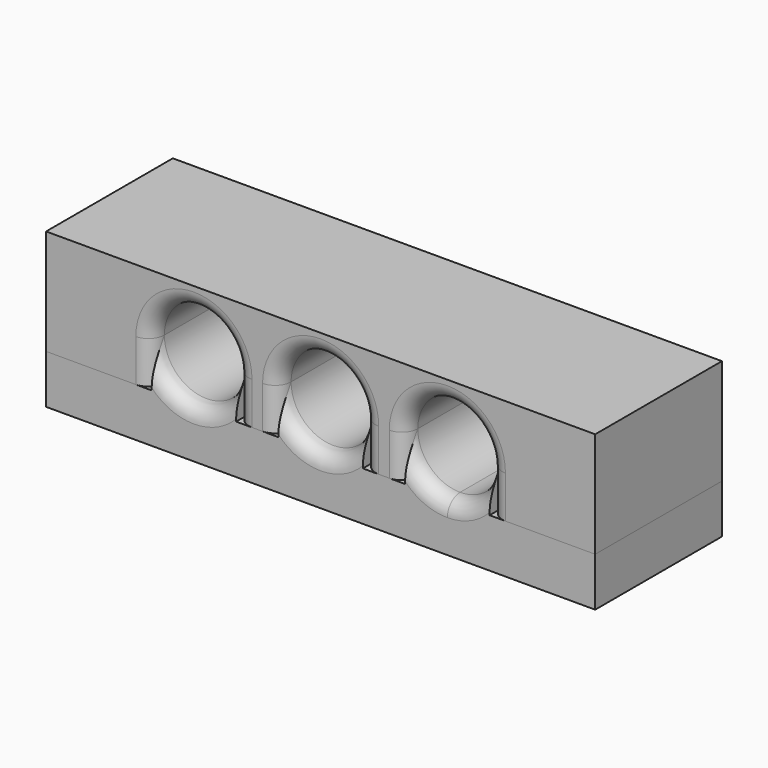
from build123d import *

# Parameters (mm, degrees)
F1_DEPTH = 7.5
F2_R     = 1.5
F3_DEPTH = 7.5
F4_R     = 1.5


with BuildPart() as f1:
    # F0 (on Front) → F1 (new body, symmetric)
    with BuildSketch(Plane.XZ):
        with BuildLine():
            ThreePointArc((-4, 0), (0, 4), (4, 0))
            Line((4, 0), (4, -4))
            Line((4, -4), (8, -4))
            Line((8, -4), (8, 0))
            ThreePointArc((8, 0), (12, 4), (16, 0))
            Line((16, 0), (16, -4))
            Line((16, -4), (26, -4))
            Line((26, -4), (26, 6))
            Line((26, 6), (-26, 6))
            Line((-26, 6), (-26, -4))
            Line((-26, -4), (-16, -4))
            Line((-16, -4), (-16, 0))
            ThreePointArc((-16, 0), (-12, 4), (-8, 0))
            Line((-8, 0), (-8, -4))
            Line((-8, -4), (-4, -4))
            Line((-4, -4), (-4, 0))
        make_face()
        with BuildLine():
            ThreePointArc((-4, 0), (0, 4), (4, 0))
            Line((4, 0), (4, -4))
            Line((4, -4), (8, -4))
            Line((8, -4), (8, 0))
            ThreePointArc((8, 0), (12, 4), (16, 0))
            Line((16, 0), (16, -4))
            Line((16, -4), (26, -4))
            Line((26, -4), (26, 6))
            Line((26, 6), (-26, 6))
            Line((-26, 6), (-26, -4))
            Line((-26, -4), (-16, -4))
            Line((-16, -4), (-16, 0))
            ThreePointArc((-16, 0), (-12, 4), (-8, 0))
            Line((-8, 0), (-8, -4))
            Line((-8, -4), (-4, -4))
            Line((-4, -4), (-4, 0))
        make_face()
    extrude(amount=F1_DEPTH, both=True)

    # F2
    f2_edges = [f1.edges().sort_by_distance(p)[0] for p in [
        (-12, 7.5, 4),
        (0, 7.5, 4),
        (12, 7.5, 4),
        (-12, -7.5, 4),
        (0, -7.5, 4),
        (12, -7.5, 4),
    ]]
    fillet(f2_edges, radius=F2_R)


with BuildPart() as f3:
    # F0 (on Front) → F3 (new body, symmetric)
    with BuildSketch(Plane.XZ):
        with BuildLine():
            Line((8, 0), (8, -4))
            Line((8, -4), (12, -4))
            ThreePointArc((12, -4), (9.1715728753, -2.8284271247), (8, 0))
        make_face()
        with BuildLine():
            ThreePointArc((0, -4), (-2.8284271247, -2.8284271247), (-4, 0))
            Line((-4, 0), (-4, -4))
            Line((-4, -4), (0, -4))
        make_face()
        with BuildLine():
            ThreePointArc((16, 0), (14.8284271247, -2.8284271247), (12, -4))
            Line((12, -4), (16, -4))
            Line((16, -4), (16, 0))
        make_face()
        with BuildLine():
            Line((-16, -4), (-12, -4))
            ThreePointArc((-12, -4), (-14.8284271247, -2.8284271247), (-16, 0))
            Line((-16, 0), (-16, -4))
        make_face()
        with BuildLine():
            Line((4, -4), (4, 0))
            ThreePointArc((4, 0), (2.8284271247, -2.8284271247), (0, -4))
            Line((0, -4), (4, -4))
        make_face()
        Polygon((4, -4), (0, -4), (-4, -4), (-8, -4), (-12, -4), (-16, -4), (-26, -4), (-26, -8.6235553026), (26, -8.6235553026), (26, -4), (16, -4), (12, -4), (8, -4), align=None)
        with BuildLine():
            Line((-12, -4), (-8, -4))
            Line((-8, -4), (-8, 0))
            ThreePointArc((-8, 0), (-9.1715728753, -2.8284271247), (-12, -4))
        make_face()
    extrude(amount=F3_DEPTH, both=True)

    # F4
    f4_edges = [f3.edges().sort_by_distance(p)[0] for p in [
        (0, 7.5, -4),
        (12, -7.5, -4),
        (12, 7.5, -4),
        (0, -7.5, -4),
        (-12, -7.5, -4),
        (-12, 7.5, -4),
    ]]
    fillet(f4_edges, radius=F4_R)


solid = Compound([f1.part, f3.part])
